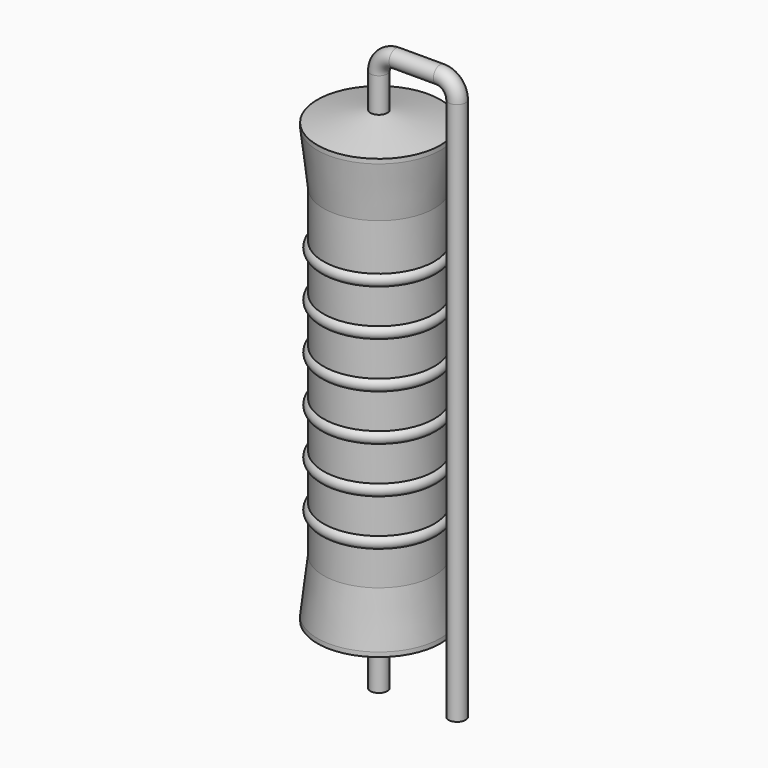
from build123d import *

# Parameters (mm, degrees)
SKETCH_R = 0.55


with BuildPart() as revolution:
    # Sketch002 → Revolution (revolve)
    with BuildSketch(Plane.XZ):
        Polygon((0, 0.1), (0, 30.1), (0.4125, 30.1), (4, 29.35), (4, 29.0575), (3.6, 25.6), (3.6, 4.6), (4, 1.1425), (4, 0.85), (0.4125, 0.1), align=None)
    revolve(axis=Axis((0, 0, 0), (0, 0, 1)))


with BuildPart() as sweep_body:
    # Sweep: sweep along a path in Sketch001
    with BuildLine(Plane.XZ) as sweep_path:
        Line((0, -3), (0, 32.3))
        ThreePointArc((0, 32.3), (0.322179, 33.077814), (1.099989, 33.4))
        Line((1.099989, 33.4), (3.98, 33.4))
        ThreePointArc((3.98, 33.4), (4.757817, 33.077817), (5.08, 32.3))
        Line((5.08, 32.3), (5.08, -3))
    # Sketch → Sweep (sweep)
    with BuildSketch(Plane.XY.offset(-2)):
        Circle(SKETCH_R)
    sweep(path=sweep_path.line)


with BuildPart() as obj1:
    # Sketch003 → Revolution001 (revolve)
    with BuildSketch(Plane.XZ):
        with BuildLine():
            Line((3.2, 24.8), (3.2, 4.6))
            Line((3.2, 4.6), (3.44, 4.6))
            Line((3.44, 4.6), (3.44, 6.8))
            ThreePointArc((3.44, 6.8), (3.84, 7.2), (3.44, 7.6))
            Line((3.44, 7.6), (3.44, 9.8))
            ThreePointArc((3.44, 9.8), (3.84, 10.2), (3.44, 10.6))
            Line((3.44, 10.6), (3.44, 12.8))
            ThreePointArc((3.44, 12.8), (3.84, 13.2), (3.44, 13.6))
            Line((3.44, 13.6), (3.44, 15.8))
            ThreePointArc((3.44, 15.8), (3.84, 16.2), (3.44, 16.6))
            Line((3.44, 16.6), (3.44, 18.8))
            ThreePointArc((3.44, 18.8), (3.84, 19.2), (3.44, 19.6))
            Line((3.44, 19.6), (3.44, 21.8))
            ThreePointArc((3.44, 21.8), (3.84, 22.2), (3.44, 22.6))
            Line((3.44, 24.8), (3.44, 22.6))
            Line((3.2, 24.8), (3.44, 24.8))
        make_face()
    revolve(axis=Axis((0, 0, 0), (0, 0, 1)))

    # obj1: union Revolution, Sweep body
    add(revolution.part)
    add(sweep_body.part)


solid = obj1.part
